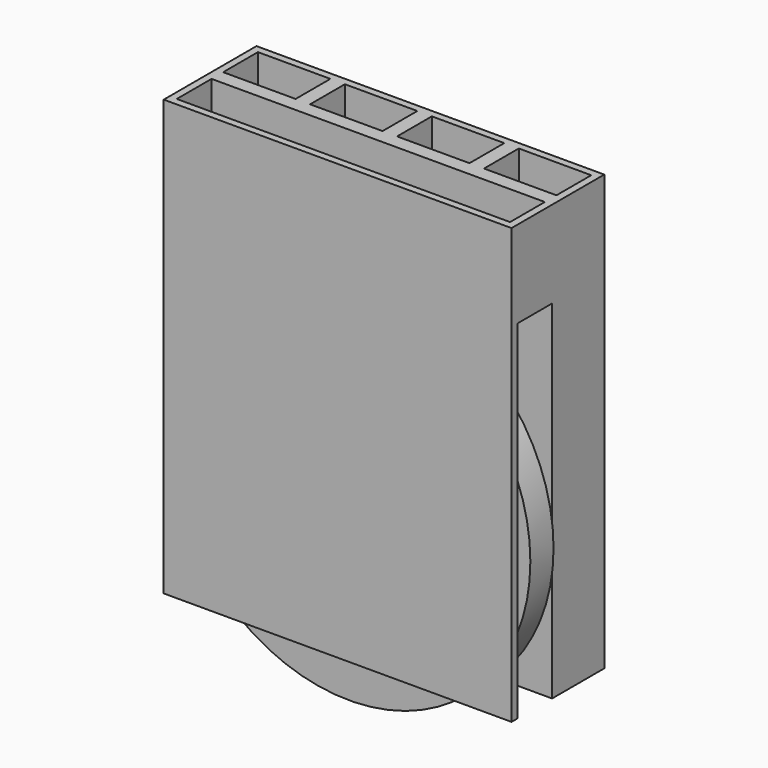
from build123d import *

# Parameters (mm, degrees)
F0_W      = 609.6
F0_H      = 762
F1_DEPTH  = 203.2
F2_W      = 76.2
F2_H      = 609.6
F3_DEPTH  = 609.6
F4_W      = 584.2
F4_H      = 76.2
F5_DEPTH  = 101.6
F7_W      = 127
F7_H      = 76.2
F8_DEPTH  = 660.4
F9_W      = 127
F9_H      = 76.2
F10_DEPTH = 660.4
F11_W     = 127
F11_H     = 76.2
F13_DEPTH = 381
F14_DEPTH = 381
F12_W     = 127
F12_H     = 76.2
F15_DEPTH = 381
F16_R     = 25.4
F17_DEPTH = 88.9
F19_R     = 317.5
F20_DEPTH = 50.8


with BuildPart() as f1:
    # F0 (on Front) → F1 (new body)
    with BuildSketch(Plane.XZ):
        with Locations((12.1244145464, 0)):
            Rectangle(F0_W, F0_H)
    extrude(amount=F1_DEPTH)

    # F2 (on face) → F3 (cut)
    with BuildSketch(Plane(origin=(-292.6755854536, 0, 0), x_dir=(0, -1, 0), z_dir=(-1, 0, 0))):
        with Locations((152.4, -76.2)):
            Rectangle(F2_W, F2_H)
    extrude(amount=-F3_DEPTH, mode=Mode.SUBTRACT)

    # F4 (on face) → F5 (cut)
    with BuildSketch(Plane.XY.offset(381)):
        with Locations((12.1244145464, -152.4)):
            Rectangle(F4_W, F4_H)
    extrude(amount=-F5_DEPTH, mode=Mode.SUBTRACT)

    # F7 (on face) → F8 (cut)
    with BuildSketch(Plane.XY.offset(381)):
        with Locations((-216.4755854536, -50.8)):
            Rectangle(F7_W, F7_H)
    extrude(amount=-F8_DEPTH, mode=Mode.SUBTRACT)

    # F9 (on face) → F10 (cut)
    with BuildSketch(Plane.XY.offset(381)):
        with Locations((-64.0755854536, -50.8)):
            Rectangle(F9_W, F9_H)
    extrude(amount=-F10_DEPTH, mode=Mode.SUBTRACT)

    # F11 (on face) → F13 (cut)
    with BuildSketch(Plane.XY.offset(381)):
        with Locations((88.3244145464, -50.8)):
            Rectangle(F11_W, F11_H)
    extrude(amount=-F13_DEPTH, mode=Mode.SUBTRACT)

    # F11 (on face) → F14 (cut)
    with BuildSketch(Plane.XY.offset(381)):
        with Locations((88.3244145464, -50.8)):
            Rectangle(F11_W, F11_H)
    extrude(amount=-F14_DEPTH, mode=Mode.SUBTRACT)

    # F12 (on face) → F15 (cut)
    with BuildSketch(Plane.XY.offset(381)):
        with Locations((240.7244145464, -50.8)):
            Rectangle(F12_W, F12_H)
    extrude(amount=-F15_DEPTH, mode=Mode.SUBTRACT)

    # F16 (on face) → F17 (join)
    with BuildSketch(Plane.XZ.offset(203.2)):
        with Locations((12.1244145464, -114.3)):
            Circle(F16_R)
    extrude(amount=-F17_DEPTH)

    # F19 (on offset) → F20 (join)
    with BuildSketch(Plane.XZ.offset(127)):
        with Locations((12.1244145464, -139.7)):
            Circle(F19_R)
    extrude(amount=F20_DEPTH)


solid = f1.part
